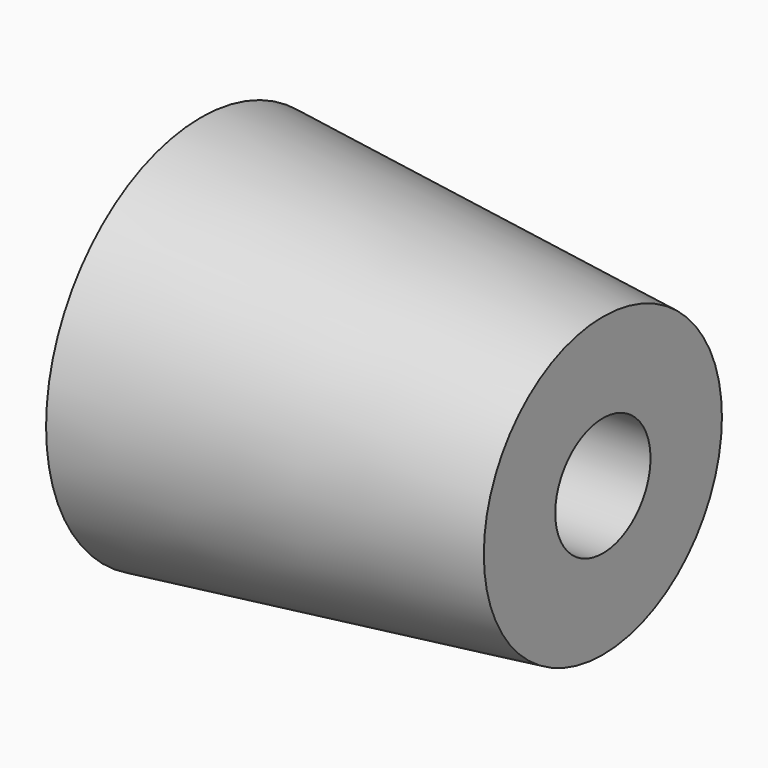
from build123d import *

# Parameters (mm, degrees)
F2_R     = 3.175
F3_DEPTH = 25.4


with BuildPart() as f1:
    # F0 (on Front) → F1 (revolve)
    with BuildSketch(Plane.XZ):
        Polygon((-3.354928, 14.437463), (-24.800148, 16.818713), (-24.800148, 6.499963), (-3.354928, 6.499963), align=None)
    revolve(axis=Axis((-14.077538, 0, 6.499963), (1, 0, 0)))

    # F2 (on face) → F3 (cut)
    with BuildSketch(Plane(origin=(-24.800148, 0, 0), x_dir=(0, -1, 0), z_dir=(-1, 0, 0))):
        with Locations((0, 6.499963)):
            Circle(F2_R)
    extrude(amount=-F3_DEPTH, mode=Mode.SUBTRACT)


solid = f1.part
